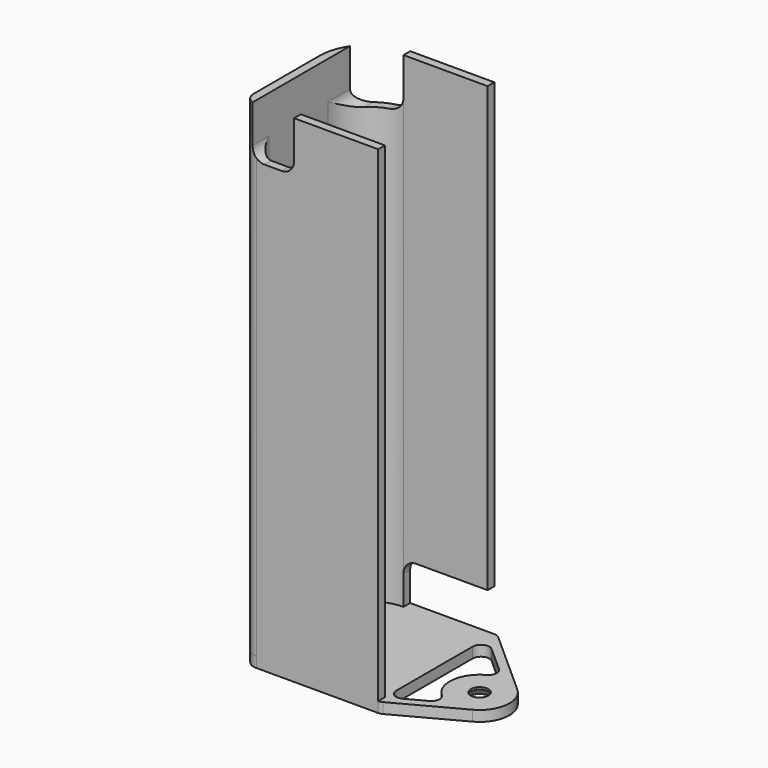
from build123d import *

# Parameters (mm, degrees)
PAD013_DEPTH        = 115.5
POCKET004_DEPTH     = 2
POCKET005_DEPTH     = 34.501
SKETCH028_R         = 2.1
PAD014_DEPTH        = 2.5
HOLE007_D           = 4
HOLE007_DEPTH       = 25
HOLE007_CSINK_D     = 8.2
HOLE007_CSINK_ANGLE = 90
HOLE007_TIPS_R      = 2


with BuildPart() as part:
    # Sketch023 → Pad013 (new body)
    with BuildSketch(Plane.XY):
        with BuildLine():
            Line((32, 34.5), (12, 34.5))
            ThreePointArc((12, 34.5), (3.514719, 30.985281), (0, 22.5))
            Line((0, 22.5), (0, 3))
            ThreePointArc((0, 3), (0.87868, 0.87868), (3, 0))
            Line((3, 0), (32, 0))
            Line((32, 0), (32, 2))
            Line((32, 2), (5, 2))
            ThreePointArc((2, 5), (2.87868, 2.87868), (5, 2))
            Line((2, 5), (2, 22.5))
            ThreePointArc((12, 32.5), (4.928932, 29.571068), (2, 22.5))
            Line((12, 32.5), (32, 32.5))
            Line((32, 32.5), (32, 34.5))
        make_face()
    extrude(amount=PAD013_DEPTH)

    # Sketch026 (on Face3 of Pad013) → Pocket004 (cut)
    with BuildSketch(Plane(origin=(0, 34.5, 0), x_dir=(-1, 0, 0), z_dir=(0, 1, 0))):
        with BuildLine():
            Line((-32, 0), (-12, 0))
            Line((-12, 0), (-12, 7))
            ThreePointArc((-12, 7), (-12.87868, 9.12132), (-15, 10))
            Line((-15, 10), (-32, 10))
            Line((-32, 10), (-32, 0))
        make_face()
    extrude(amount=-POCKET004_DEPTH, mode=Mode.SUBTRACT)

    # Sketch027 (on Face12 of Pocket004) → Pocket005 (cut, through all)
    with BuildSketch(Plane.XZ):
        with BuildLine():
            Line((2, 115.5), (2, 106.5))
            ThreePointArc((2, 106.5), (2.87868, 104.37868), (5, 103.5))
            Line((5, 103.5), (9, 103.5))
            ThreePointArc((9, 103.5), (11.12132, 104.37868), (12, 106.5))
            Line((12, 106.5), (12, 115.5))
            Line((12, 115.5), (2, 115.5))
        make_face()
    extrude(amount=-POCKET005_DEPTH, mode=Mode.SUBTRACT)

    # Sketch028 (on Face10 of Pocket005) → Pad014 (join)
    with BuildSketch(Plane(origin=(0, 0, 0), x_dir=(1, 0, 0), z_dir=(0, 0, -1))):
        with BuildLine():
            ThreePointArc((0, -22.500013), (3.514723, -30.985286), (12, -34.5))
            Line((12, -34.5), (32, -34.5))
            ThreePointArc((32, -34.5), (32.712902, -34.368628), (33.332149, -33.99177))
            Line((33.332149, -33.99177), (49.22913, -19.795784))
            ThreePointArc((49.22913, -19.795784), (51.550546, -13.663456), (47.858588, -8.244612))
            Line((32.946081, -0.237919), (47.858588, -8.244612))
            ThreePointArc((32.946081, -0.237919), (32.487769, -0.060391), (32, 0))
            Line((3.000001, 0), (32, 0))
            ThreePointArc((3.000001, 0), (0.87868, -0.878679), (0, -3))
            Line((0, -3), (0, -22.500013))
        make_face()
        with Locations((44.5, -14.5)):
            Circle(SKETCH028_R, mode=Mode.SUBTRACT)
        with BuildLine():
            Line((32, -5.343865), (32, -28.032624))
            ThreePointArc((32, -28.032624), (33.182779, -29.858042), (35.332149, -29.524394))
            Line((35.332149, -29.524394), (41.515411, -24.002748))
            ThreePointArc((41.515411, -24.002748), (42.169508, -22.276828), (41.131996, -20.750324))
            ThreePointArc((39.762901, -9.211343), (37.449454, -15.336544), (41.131996, -20.750324))
            ThreePointArc((39.762901, -9.211343), (40.414398, -7.484439), (39.374588, -5.959499))
            Line((34.946081, -3.581784), (39.374588, -5.959499))
            ThreePointArc((34.946081, -3.581784), (32.973395, -3.62745), (32, -5.343865))
        make_face(mode=Mode.SUBTRACT)
    extrude(amount=PAD014_DEPTH)

    # Hole007
    with Locations(Plane(origin=(0, 0, -2.5), x_dir=(1, 0, 0), z_dir=(0, 0, -1))):
        with Locations((44.5, -14.5)):
            CounterSinkHole(HOLE007_D / 2, HOLE007_CSINK_D / 2, depth=HOLE007_DEPTH, counter_sink_angle=HOLE007_CSINK_ANGLE)

    # Hole007 tips → Hole007 tip 1 section 0
    with BuildSketch(Plane(origin=(0, 0, 22.5), x_dir=(1, 0, 0), z_dir=(0, 0, -1)), mode=Mode.PRIVATE) as hole007_tip_1_s0:
        with Locations((44.5, -14.5)):
            Circle(HOLE007_TIPS_R)
    loft([hole007_tip_1_s0.sketch, Vertex(44.5, 14.5, 23.701721)], mode=Mode.SUBTRACT)


solid = part.part
